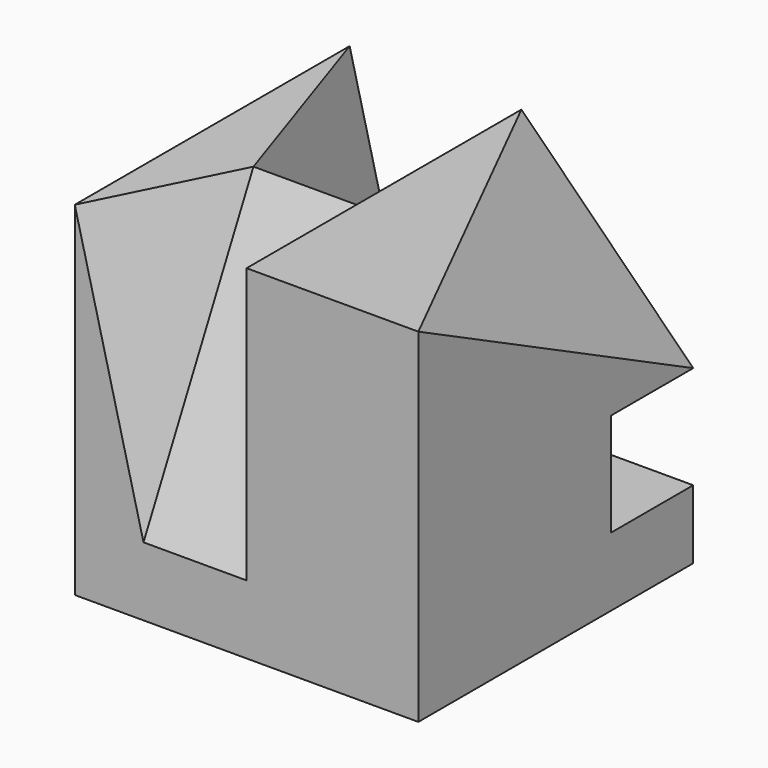
from build123d import *

# Parameters (mm, degrees)
F0_W      = 50
F0_H      = 50
F1_DEPTH  = 50
F2_W      = 15
F2_H      = 20
F5_W      = 15
F5_H      = 30
F16_DEPTH = 15


with BuildPart() as f1:
    # F0 (on Top) → F1 (new body)
    with BuildSketch(Plane.XY):
        with Locations((25, 25)):
            Rectangle(F0_W, F0_H)
    extrude(amount=F1_DEPTH)

    # F4: sweep along a path in F3
    with BuildLine(Plane.YZ.offset(50)) as f4_path:
        Line((0, 10), (20, 50))
    # F2 (on face) → F4 (sweep, cut)
    with BuildSketch(Plane.XY.offset(50)):
        with Locations((17.5, 10)):
            Rectangle(F2_W, F2_H)
    sweep(path=f4_path.line, mode=Mode.SUBTRACT)

    # F7: sweep along a path in F6
    with BuildLine(Plane.YZ.offset(50)) as f7_path:
        Line((50, 10), (20, 50))
    # F5 (on face) → F7 (sweep, cut)
    with BuildSketch(Plane.XY.offset(50)):
        with Locations((17.5, 35)):
            Rectangle(F5_W, F5_H)
    sweep(path=f7_path.line, mode=Mode.SUBTRACT)

    # F9: sweep along a path in F8
    with BuildLine(Plane(origin=(0, 50, 0), x_dir=(-1, 0, 0), z_dir=(0, 1, 0))) as f9_path:
        Line((0, 50), (-10, 10))
    # F7_face (on face) → F9 (sweep, cut)
    with BuildSketch(Plane(origin=(10, 40, 36.6666666667), x_dir=(0, 1, 0), z_dir=(1, 0, 0))):
        Polygon((10, 13.3333333333), (-20, 13.3333333333), (10, -26.6666666667), align=None)
    sweep(path=f9_path.line, mode=Mode.SUBTRACT)

    # F11: sweep along a path in F10
    with BuildLine(Plane.XY.offset(50)) as f11_path:
        Line((10, 20), (0, 0))
    # F4_face (on face) → F11 (sweep, cut)
    with BuildSketch(Plane(origin=(10, 6.6666666667, 36.6666666667), x_dir=(0, 1, 0), z_dir=(1, 0, 0))):
        Polygon((-6.6666666667, -26.6666666667), (13.3333333333, 13.3333333333), (-6.6666666667, 13.3333333333), align=None)
    sweep(path=f11_path.line, mode=Mode.SUBTRACT)

    # F14: sweep along a path in F13
    with BuildLine(Plane.YZ.offset(50)) as f14_path:
        Line((0, 50), (50, 25))
    # F12 (on face) → F14 (sweep, cut)
    with BuildSketch(Plane.XY.offset(50)):
        Polygon((50, 50), (25, 50), (50, 0), align=None)
    sweep(path=f14_path.line, mode=Mode.SUBTRACT)

    # F15 (on face) → F16 (cut)
    with BuildSketch(Plane(origin=(0, 50, 0), x_dir=(-1, 0, 0), z_dir=(0, 1, 0))):
        Polygon((-50, 25), (-50, 10), (-30, 10), align=None)
    extrude(amount=-F16_DEPTH, mode=Mode.SUBTRACT)


solid = f1.part
